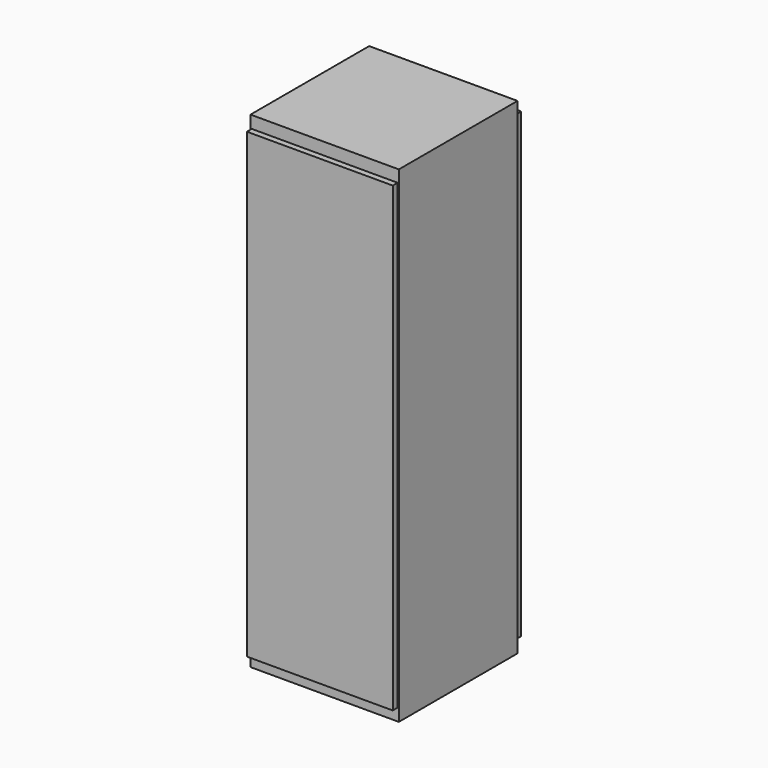
from build123d import *

# Parameters (mm, degrees)
F0_W     = 610
F0_H     = 610
F1_DEPTH = 2000
F2_W     = 600
F2_H     = 1900
F3_DEPTH = 25


with BuildPart() as f1:
    # F0 (on Top) → F1 (new body)
    with BuildSketch(Plane.XY):
        with Locations((305, -305)):
            Rectangle(F0_W, F0_H)
    extrude(amount=F1_DEPTH)

    # F2 (on face) → F3 (join)
    with BuildSketch(Plane.XZ.offset(610)):
        with Locations((305, 1000)):
            Rectangle(F2_W, F2_H)
    extrude(amount=F3_DEPTH)

    # F8: F1 across plane


with BuildPart() as f1_1:
    add(f1.part)
    add(f1.part.mirror(Plane(origin=(0, -305, 2000), x_dir=(1, 0, 0), z_dir=(0, -1, 0))))


solid = f1_1.part
